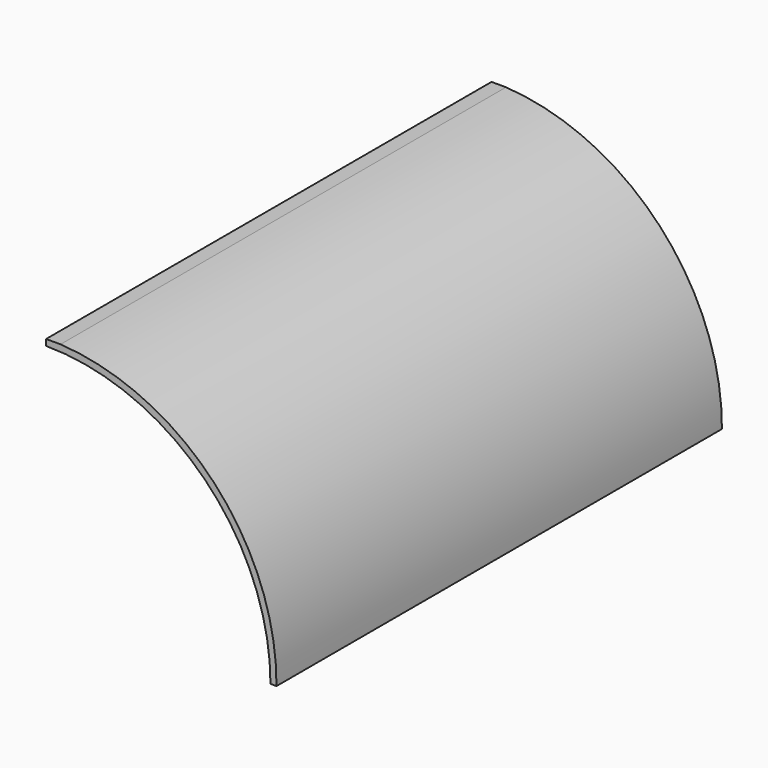
from build123d import *

# Parameters (mm, degrees)
F0_W     = 290
F0_H     = 290
F1_DEPTH = 700
F3_DEPTH = 795
F5_DEPTH = 770


with BuildPart() as f1:
    # F0 (on Front) → F1 (new body)
    with BuildSketch(Plane.XZ):
        with Locations((145, 145)):
            Rectangle(F0_W, F0_H)
    extrude(amount=F1_DEPTH)

    # F2 (on face) → F3 (cut)
    with BuildSketch(Plane.XZ):
        with BuildLine():
            ThreePointArc((18.21568, 290), (211.733128, 199.092972), (289.675921, 0))
            Line((289.675921, 0), (290, 0))
            Line((290, 0), (290, 290))
            Line((290, 290), (18.21568, 290))
        make_face()
    extrude(amount=F3_DEPTH, mode=Mode.SUBTRACT)

    # F4 (on face) → F5 (cut)
    with BuildSketch(Plane.XZ.offset(700)):
        with BuildLine():
            Line((0, 0), (282.123595, 0))
            ThreePointArc((282.123595, 0), (199.483979, 199.530675), (0, 282.282948))
            Line((0, 282.282948), (0, 0))
        make_face()
    extrude(amount=-F5_DEPTH, mode=Mode.SUBTRACT)


solid = f1.part
